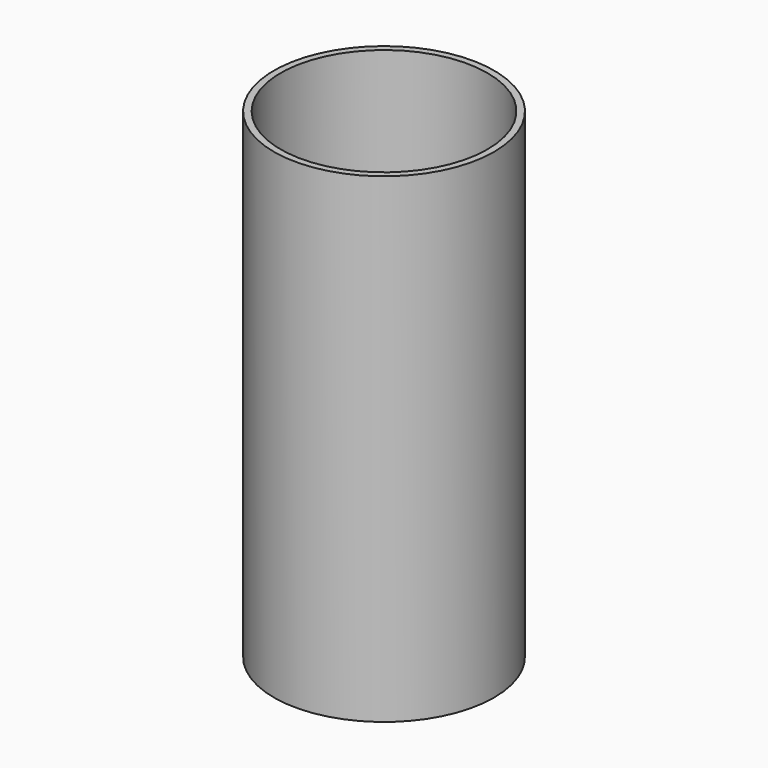
from build123d import *

# Parameters (mm, degrees)
SKETCH_R      = 8.25
PAD_DEPTH     = 1
SKETCH001_R   = 8.25
SKETCH001_R_2 = 7.75
PAD001_DEPTH  = 35


with BuildPart() as part:
    # Sketch → Pad (new body)
    with BuildSketch(Plane.XY):
        Circle(SKETCH_R)
    extrude(amount=PAD_DEPTH)

    # Sketch001 (on Face3 of Pad) → Pad001 (join)
    with BuildSketch(Plane.XY.offset(1)):
        Circle(SKETCH001_R)
        Circle(SKETCH001_R_2, mode=Mode.SUBTRACT)
    extrude(amount=PAD001_DEPTH)


solid = part.part
